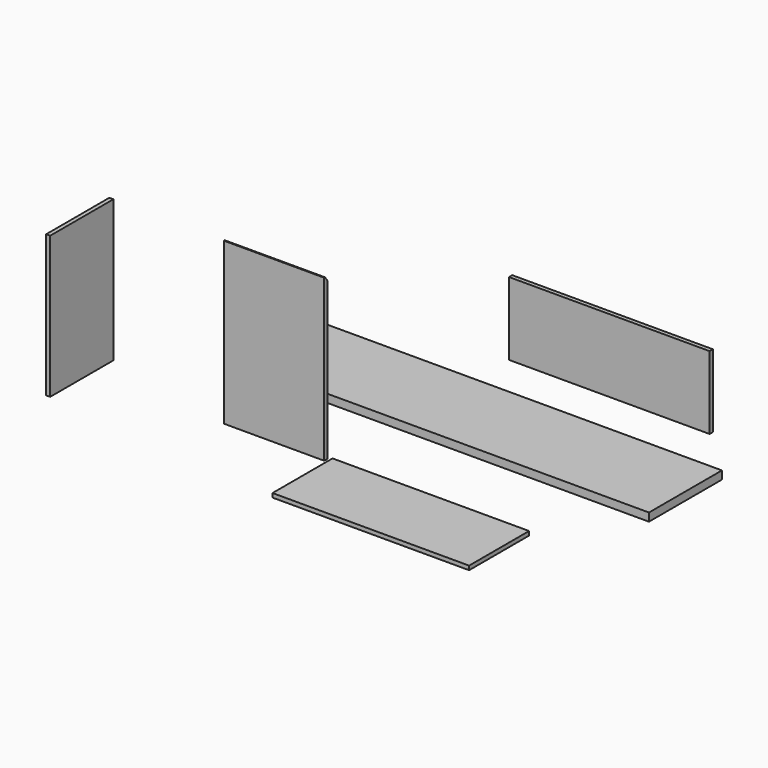
from build123d import *

# Parameters (mm, degrees)
F0_W     = 2000
F0_H     = 40
F1_DEPTH = 450
F3_DEPTH = 495
F4_W     = 990
F4_H     = 360
F5_DEPTH = 20
F6_W     = 390
F6_H     = 700
F7_DEPTH = 20
F8_W     = 970
F8_H     = 370
F9_DEPTH = 20


with BuildPart() as f1:
    # F0 (on Front) → F1 (new body)
    with BuildSketch(Plane.XZ):
        with Locations((930.711687, 20)):
            Rectangle(F0_W, F0_H)
    extrude(amount=F1_DEPTH)


with BuildPart() as f3:
    # F2 (on Right) → F3 (new body)
    with BuildSketch(Plane.YZ):
        Polygon((-653.831805, 677.905893), (-658.831805, 677.905893), (-658.831805, -117.094107), (-638.831805, -117.094107), (-638.831805, 657.905893), align=None)
    extrude(amount=F3_DEPTH)


with BuildPart() as f5:
    # F4 (on Front) → F5 (new body)
    with BuildSketch(Plane.XZ):
        with Locations((1390.94996, 371.722646)):
            Rectangle(F4_W, F4_H)
        with Locations((1390.94996, 371.722646)):
            Rectangle(F4_W, F4_H)
    extrude(amount=F5_DEPTH)


with BuildPart() as f7:
    # F6 (on Right) → F7 (new body)
    with BuildSketch(Plane.YZ):
        with Locations((-1560.52237, 801.627493)):
            Rectangle(F6_W, F6_H)
    extrude(amount=F7_DEPTH)


with BuildPart() as f9:
    # F8 (on Top) → F9 (new body)
    with BuildSketch(Plane.XY):
        with Locations((1157.383695, -1014.102879)):
            Rectangle(F8_W, F8_H)
    extrude(amount=F9_DEPTH)


solid = Compound([f1.part, f3.part, f5.part, f7.part, f9.part])
